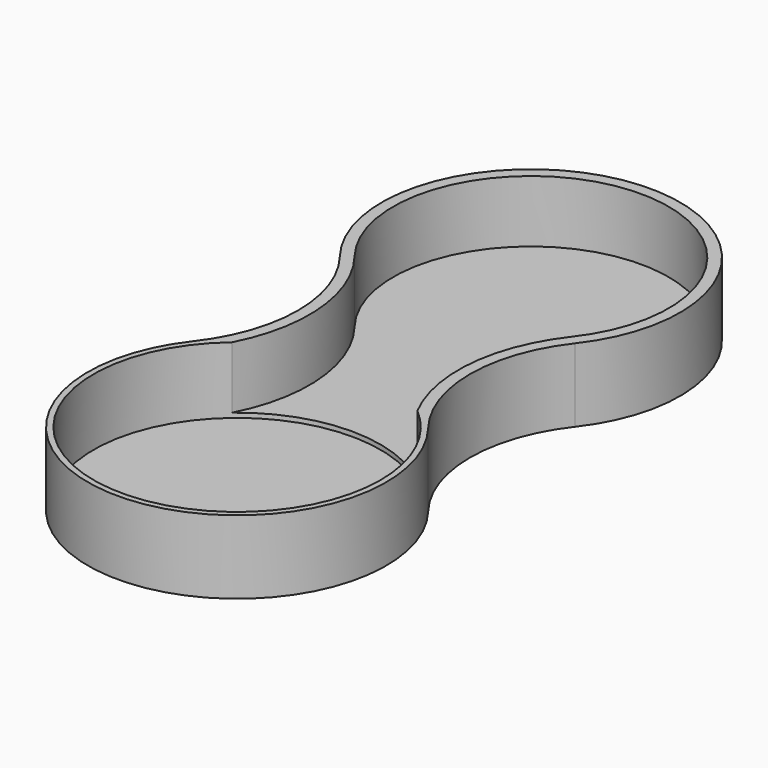
from build123d import *

# Parameters (mm, degrees)
PAD_DEPTH       = 32
POCKET_DEPTH    = 27
SKETCH021_R     = 62.5
POCKET014_DEPTH = 29


with BuildPart() as part:
    # Sketch → Pad (new body)
    with BuildSketch(Plane.XY):
        with BuildLine():
            ThreePointArc((-51.234754, 40), (0, -65), (51.234754, 40))
            ThreePointArc((51.234754, 120), (37.469508, 80), (51.234754, 40))
            ThreePointArc((51.234754, 120), (0, 225), (-51.234754, 120))
            ThreePointArc((-51.234754, 40), (-37.469508, 80), (-51.234754, 120))
        make_face()
    extrude(amount=PAD_DEPTH)

    # Sketch001 (on Face6 of Pad) → Pocket (cut)
    with BuildSketch(Plane.XY.offset(32)):
        with BuildLine():
            ThreePointArc((-47.293673, 36.923008), (4.4e-05, -60), (47.293619, 36.923077))
            ThreePointArc((47.293619, 123.076923), (32.469508, 80), (47.293619, 36.923077))
            ThreePointArc((47.293619, 123.076923), (0, 220), (-47.293619, 123.076923))
            ThreePointArc((-47.293673, 36.923008), (-32.469508, 79.999956), (-47.293619, 123.076923))
        make_face()
    extrude(amount=-POCKET_DEPTH, mode=Mode.SUBTRACT)

    # Sketch021 (on Face5 of Pocket) → Pocket014 (cut)
    with BuildSketch(Plane.XY.offset(32)):
        Circle(SKETCH021_R)
    extrude(amount=-POCKET014_DEPTH, mode=Mode.SUBTRACT)


solid = part.part
